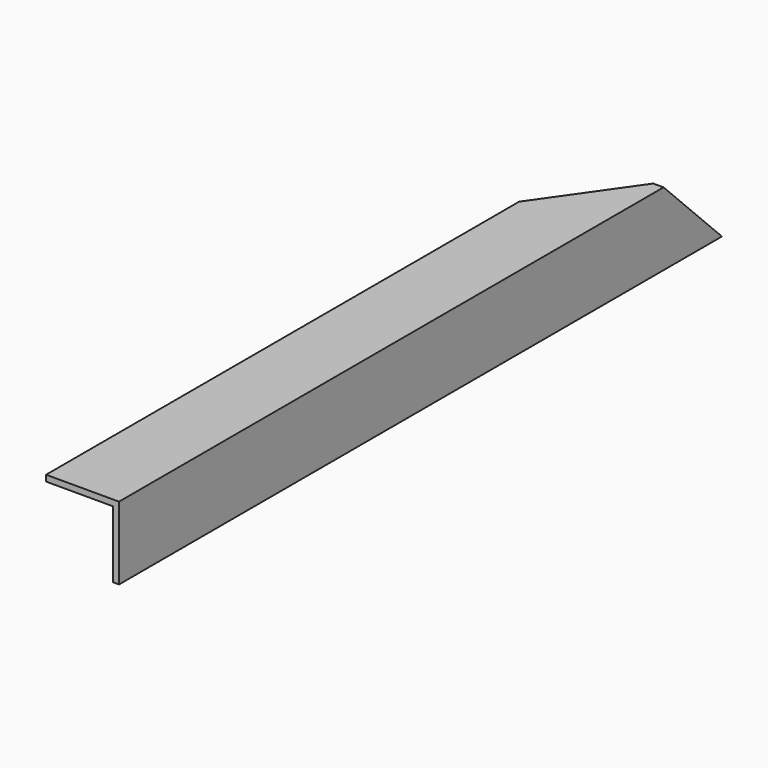
from build123d import *

# Parameters (mm, degrees)
F1_DEPTH = 787.4
F3_DEPTH = 76.2
F5_DEPTH = 25.4
F7_DEPTH = 25.4


with BuildPart() as f1:
    # F0 (on Front) → F1 (new body)
    with BuildSketch(Plane.XZ):
        Polygon((31.75, -38.1), (38.1, -38.1), (38.1, 38.1), (-38.1, 38.1), (-38.1, 31.75), (31.75, 31.75), align=None)
    extrude(amount=F1_DEPTH)

    # F2 (on face) → F3 (cut)
    with BuildSketch(Plane.YZ.offset(38.1)):
        Polygon((-76.2, 38.1), (0, -38.1), (0, 38.1), align=None)
    extrude(amount=-F3_DEPTH, mode=Mode.SUBTRACT)

    # F4 (on face) → F5 (cut)
    with BuildSketch(Plane.XY.offset(38.1)):
        Polygon((-38.1, -169.606138), (27.303682, -76.2), (-38.1, -76.2), align=None)
    extrude(amount=-F5_DEPTH, mode=Mode.SUBTRACT)

    # F6 (on face) → F7 (cut)
    with BuildSketch(Plane(origin=(0, 0, 31.75), x_dir=(1, 0, 0), z_dir=(0, 0, -1))):
        Polygon((-38.1, 69.85), (31.75, 69.85), (27.303682, 76.2), (-38.1, 76.2), align=None)
    extrude(amount=-F7_DEPTH, mode=Mode.SUBTRACT)


solid = f1.part
